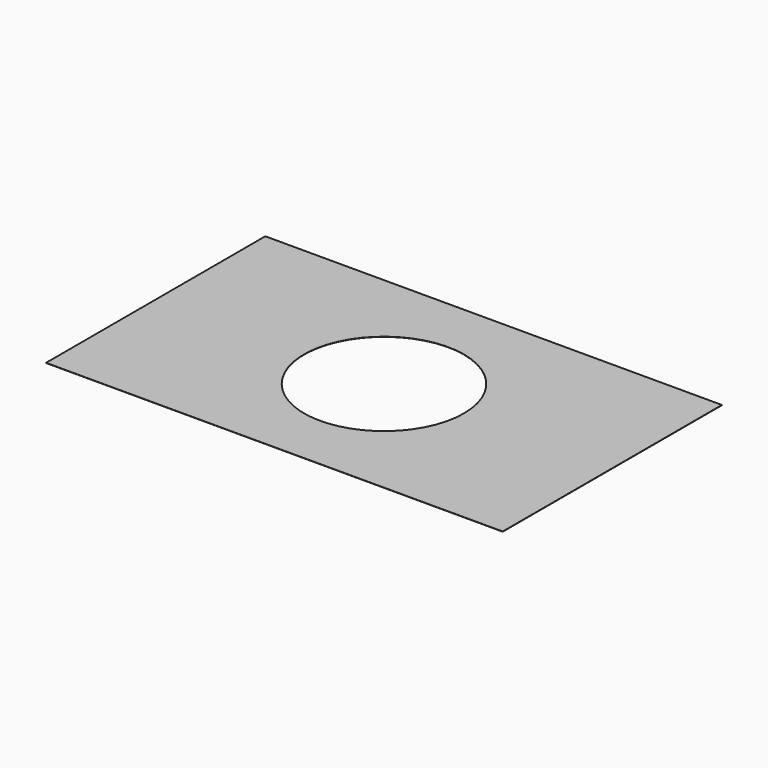
from build123d import *

# Parameters (mm, degrees)
SKETCH_W  = 200
SKETCH_H  = 120
SKETCH_R  = 35
PAD_DEPTH = 0.1


with BuildPart() as part:
    # Sketch → Pad (new body)
    with BuildSketch(Plane.XY):
        Rectangle(SKETCH_W, SKETCH_H)
        Circle(SKETCH_R, mode=Mode.SUBTRACT)
    extrude(amount=PAD_DEPTH)


solid = part.part
